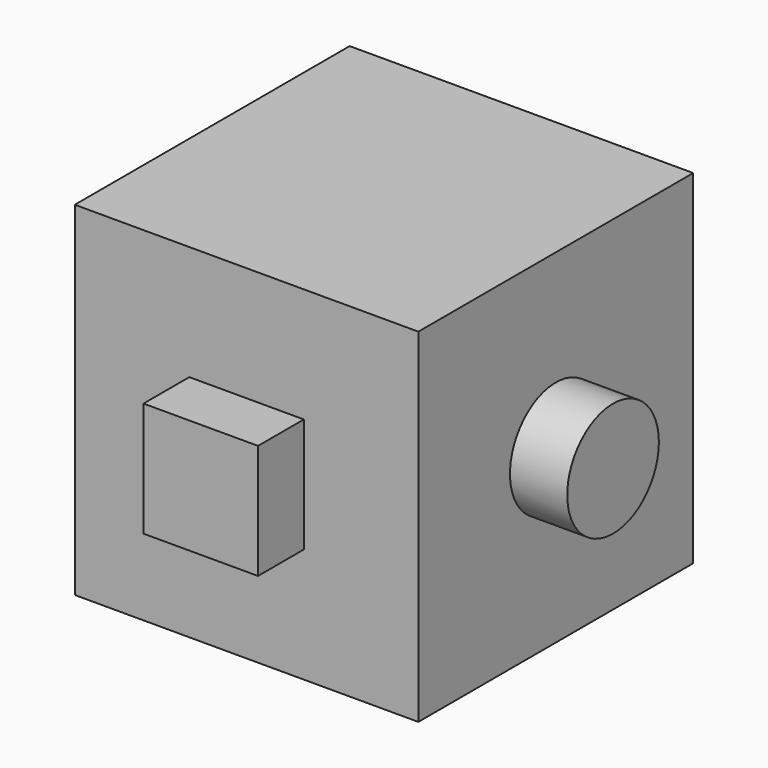
from build123d import *

# Parameters (mm, degrees)
F0_W     = 76.2
F0_H     = 76.2
F1_DEPTH = 25.4
F2_DEPTH = 76.2
F3_W     = 25.4
F3_H     = 25.4
F4_DEPTH = 12.7
F5_R     = 12.7
F6_DEPTH = 12.7


with BuildPart() as f1:
    # F0 (on Front) → F1 (new body)
    with BuildSketch(Plane.XZ):
        with Locations((-20.762124, 55.010101)):
            Rectangle(F0_W, F0_H)
    extrude(amount=F1_DEPTH)

    # F0 (on Front) → F2 (join)
    with BuildSketch(Plane.XZ):
        with Locations((-20.762124, 55.010101)):
            Rectangle(F0_W, F0_H)
    extrude(amount=F2_DEPTH)

    # F3 (on face) → F4 (join)
    with BuildSketch(Plane.XZ.offset(76.2)):
        with Locations((-20.762124, 55.010101)):
            Rectangle(F3_W, F3_H)
    extrude(amount=F4_DEPTH)

    # F5 (on face) → F6 (join)
    with BuildSketch(Plane.YZ.offset(17.337876)):
        with Locations((-38.1, 55.010101)):
            Circle(F5_R)
    extrude(amount=F6_DEPTH)


solid = f1.part
